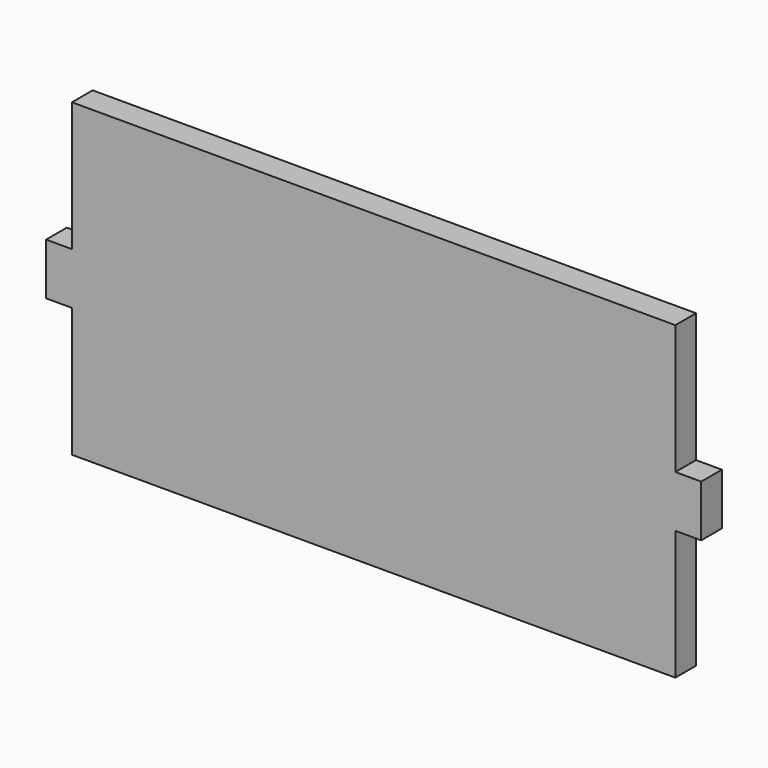
from build123d import *

# Parameters (mm, degrees)
F0_W     = 70
F0_H     = 36
F1_DEPTH = 3
F2_W     = 3
F2_H     = 6
F3_DEPTH = 3


with BuildPart() as f1:
    # F0 (on Front) → F1 (new body)
    with BuildSketch(Plane.XZ):
        Rectangle(F0_W, F0_H)
    extrude(amount=F1_DEPTH)

    # F2 (on face) → F3 (join)
    with BuildSketch(Plane.XZ.offset(3)):
        with Locations((-36.5, 0)):
            Rectangle(F2_W, F2_H)
        with Locations((36.5, 0)):
            Rectangle(F2_W, F2_H)
    extrude(amount=-F3_DEPTH)


solid = f1.part
